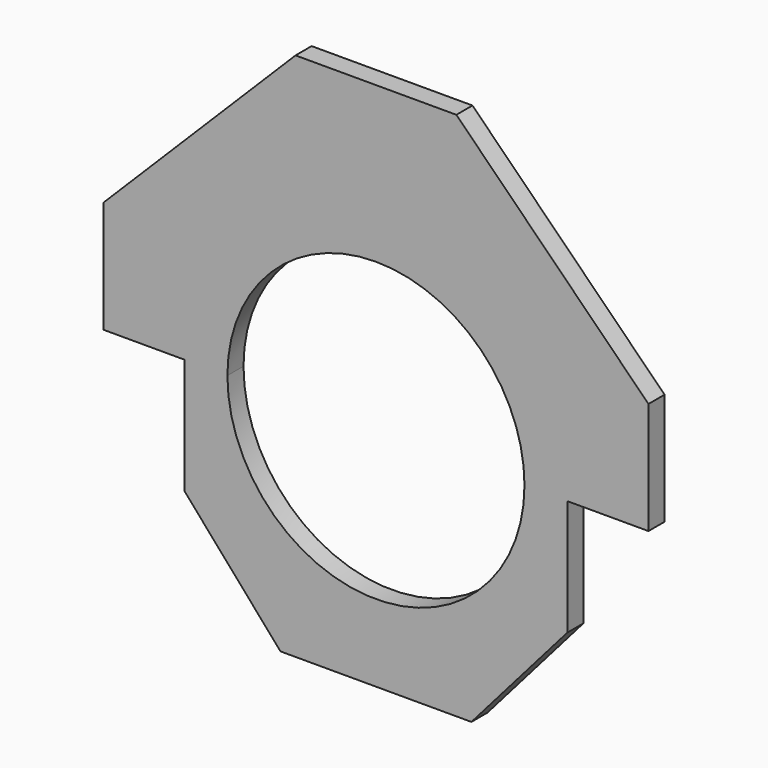
from build123d import *

# Parameters (mm, degrees)
F0_R     = 60
F0_R_2   = 15
F1_DEPTH = 20
F2_DEPTH = 20


with BuildPart() as f1:
    # F0 (on Front) → F1 (new body)
    with BuildSketch(Plane.XZ):
        with BuildLine():
            Line((-190, -64.776695), (-147.5, -64.776695))
            ThreePointArc((-147.5, -64.776695), (-136.272231, -8.330889), (-104.29825, 39.521555))
            Line((-104.29825, 39.521555), (-190.87295, 126.096255))
            Line((-190.87295, 126.096255), (-270.612759, 46.356446))
            Line((-270.612759, 46.356446), (-190, -34.256313))
            Line((-190, -34.256313), (-190, -64.776695))
        make_face()
        with BuildLine():
            Line((190, -64.776695), (147.5, -64.776695))
            ThreePointArc((147.5, -64.776695), (0, -212.276695), (-147.5, -64.776695))
            Line((-147.5, -64.776695), (-190, -64.776695))
            Line((-190, -64.776695), (-190, -179.776695))
            Line((-190, -179.776695), (-94.798649, -288.776695))
            Line((-94.798649, -288.776695), (0, -288.776695))
            Line((0, -288.776695), (94.798648, -288.776695))
            Line((94.798648, -288.776695), (190, -179.776695))
            Line((190, -179.776695), (190, -64.776695))
        make_face()
        with BuildLine():
            ThreePointArc((104.29825, 39.521555), (136.272231, -8.330889), (147.5, -64.776695))
            Line((147.5, -64.776695), (190, -64.776695))
            Line((190, -64.776695), (190, -34.256313))
            Line((190, -34.256313), (270.612758, 46.356446))
            Line((270.612758, 46.356446), (190.872949, 126.096255))
            Line((190.872949, 126.096255), (104.29825, 39.521555))
        make_face()
        with BuildLine():
            ThreePointArc((-104.29825, 39.521555), (0, 82.723305), (104.29825, 39.521555))
            Line((104.29825, 39.521555), (190.872949, 126.096255))
            Line((190.872949, 126.096255), (79.857185, 237.112019))
            Line((79.857185, 237.112019), (0, 237.112019))
            Line((0, 237.112019), (-79.857185, 237.112019))
            Line((-79.857185, 237.112019), (-190.87295, 126.096255))
            Line((-190.87295, 126.096255), (-104.29825, 39.521555))
        make_face()
        with Locations((-65, 154.372583)):
            Circle(F0_R, mode=Mode.SUBTRACT)
        with Locations((65, 154.372583)):
            Circle(F0_R, mode=Mode.SUBTRACT)
        with Locations((-65, 154.372583)):
            Circle(F0_R)
        with Locations((-65, 154.372583)):
            Circle(F0_R_2, mode=Mode.SUBTRACT)
        with Locations((-65, 154.372583)):
            Circle(F0_R_2)
        with Locations((65, 154.372583)):
            Circle(F0_R)
        with Locations((65, 154.372583)):
            Circle(F0_R_2, mode=Mode.SUBTRACT)
        with Locations((65, 154.372583)):
            Circle(F0_R_2)
    extrude(amount=F1_DEPTH)

    # F0 (on Front) → F2 (join)
    with BuildSketch(Plane.XZ):
        Polygon((190, -34.256313), (190, -64.776695), (230, -64.776695), (270.612758, -64.776695), (270.612758, 46.356446), align=None)
        Polygon((-230, -64.776695), (-190, -64.776695), (-190, -34.256313), (-270.612759, 46.356446), (-270.612759, -64.776695), align=None)
    extrude(amount=F2_DEPTH)


solid = f1.part
